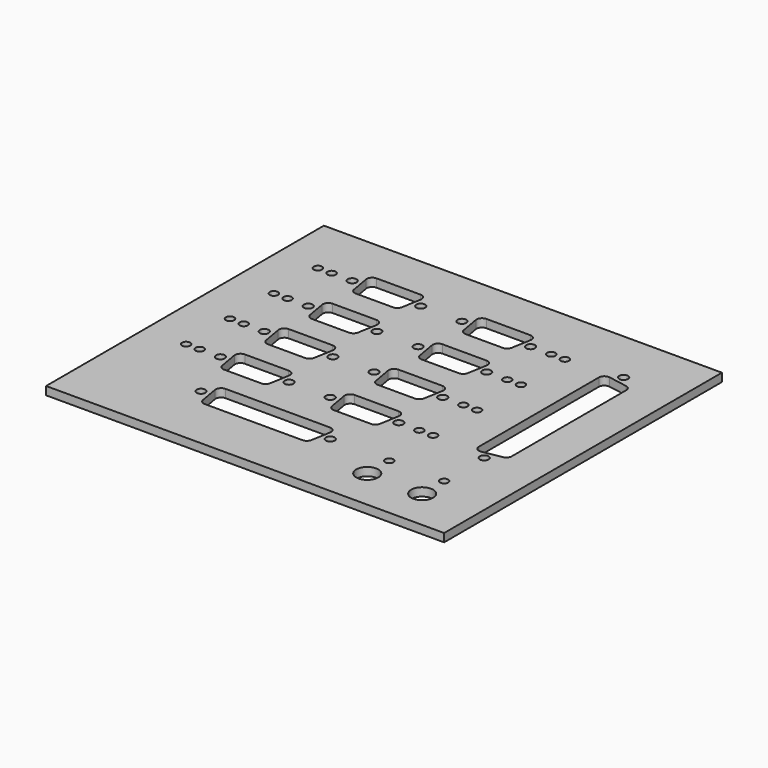
from build123d import *

# Parameters (mm, degrees)
F0_W      = 145
F0_H      = 126.5
F1_DEPTH  = 3
F2_R      = 1.5
F3_DEPTH  = 3.001
F4_R      = 1.6
F5_DEPTH  = 3.001
F7_R      = 1.6
F8_DEPTH  = 3.001
F9_R      = 1.6
F10_DEPTH = 3.001
F11_R     = 4
F11_R_2   = 1.5
F12_DEPTH = 3.001
F13_DEPTH = 3.001
F15_DEPTH = 3.001
F17_DEPTH = 3.001


with BuildPart() as f1:
    # F0 (on Top) → F1 (new body)
    with BuildSketch(Plane.XY):
        with Locations((72.5, 63.25)):
            Rectangle(F0_W, F0_H)
    extrude(amount=F1_DEPTH)

    # F2 (on face) → F3 (cut, through all)
    with BuildSketch(Plane.XY.offset(3)):
        with Locations((15, 105)):
            Circle(F2_R)
        with Locations((20, 105)):
            Circle(F2_R)
        with Locations((100, 105)):
            Circle(F2_R)
        with Locations((105, 105)):
            Circle(F2_R)
        with Locations((15, 85)):
            Circle(F2_R)
        with Locations((20, 85)):
            Circle(F2_R)
        with Locations((15, 65)):
            Circle(F2_R)
        with Locations((20, 65)):
            Circle(F2_R)
        with Locations((15, 45)):
            Circle(F2_R)
        with Locations((20, 45)):
            Circle(F2_R)
        with Locations((100, 85)):
            Circle(F2_R)
        with Locations((105, 85)):
            Circle(F2_R)
        with Locations((100, 65)):
            Circle(F2_R)
        with Locations((105, 65)):
            Circle(F2_R)
        with Locations((100, 45)):
            Circle(F2_R)
        with Locations((105, 45)):
            Circle(F2_R)
    extrude(amount=-F3_DEPTH, mode=Mode.SUBTRACT)

    # F4 (on face) → F5 (cut, through all)
    with BuildSketch(Plane.XY.offset(3)):
        with Locations((27.5, 105)):
            Circle(F4_R)
        with Locations((67.5, 105)):
            Circle(F4_R)
        with Locations((27.5, 85)):
            Circle(F4_R)
        with Locations((67.5, 85)):
            Circle(F4_R)
        with Locations((27.5, 65)):
            Circle(F4_R)
        with Locations((67.5, 65)):
            Circle(F4_R)
        with Locations((27.5, 45)):
            Circle(F4_R)
        with Locations((67.5, 45)):
            Circle(F4_R)
        with Locations((52.5, 105)):
            Circle(F4_R)
        with Locations((92.5, 105)):
            Circle(F4_R)
        with Locations((52.5, 85)):
            Circle(F4_R)
        with Locations((92.5, 85)):
            Circle(F4_R)
        with Locations((52.5, 65)):
            Circle(F4_R)
        with Locations((92.5, 65)):
            Circle(F4_R)
        with Locations((52.5, 45)):
            Circle(F4_R)
        with Locations((92.5, 45)):
            Circle(F4_R)
    extrude(amount=-F5_DEPTH, mode=Mode.SUBTRACT)

    # F7 (on face) → F8 (cut, through all)
    with BuildSketch(Plane.XY.offset(3)):
        with Locations((125, 106.75)):
            Circle(F7_R)
        with Locations((125, 43.25)):
            Circle(F7_R)
    extrude(amount=-F8_DEPTH, mode=Mode.SUBTRACT)

    # F9 (on face) → F10 (cut, through all)
    with BuildSketch(Plane.XY.offset(3)):
        with Locations((36.45, 25)):
            Circle(F9_R)
        with Locations((83.55, 25)):
            Circle(F9_R)
    extrude(amount=-F10_DEPTH, mode=Mode.SUBTRACT)

    # F11 (on face) → F12 (cut, through all)
    with BuildSketch(Plane.XY.offset(3)):
        with Locations((105, 15)):
            Circle(F11_R)
        with Locations((125, 15)):
            Circle(F11_R)
        with Locations((105, 25)):
            Circle(F11_R_2)
        with Locations((125, 25)):
            Circle(F11_R_2)
    extrude(amount=-F12_DEPTH, mode=Mode.SUBTRACT)

    # F6 (on face) → F13 (cut, through all)
    with BuildSketch(Plane.XY.offset(3)):
        with BuildLine():
            Line((48, 110.5), (32, 110.5))
            ThreePointArc((32, 110.5), (30.467911, 109.785575), (30.030384, 108.152704))
            Line((30.030384, 108.152704), (31.264673, 101.152704))
            ThreePointArc((31.264673, 101.152704), (31.948714, 99.967911), (33.234289, 99.5))
            Line((33.234289, 99.5), (46.765711, 99.5))
            ThreePointArc((46.765711, 99.5), (48.051286, 99.967911), (48.735327, 101.152704))
            Line((48.735327, 101.152704), (49.969616, 108.152704))
            ThreePointArc((49.969616, 108.152704), (49.532089, 109.785575), (48, 110.5))
        make_face()
        with BuildLine():
            Line((88, 110.5), (72, 110.5))
            ThreePointArc((72, 110.5), (70.467911, 109.785575), (70.030384, 108.152704))
            Line((70.030384, 108.152704), (71.264673, 101.152704))
            ThreePointArc((71.264673, 101.152704), (71.948714, 99.967911), (73.234289, 99.5))
            Line((73.234289, 99.5), (86.765711, 99.5))
            ThreePointArc((86.765711, 99.5), (88.051286, 99.967911), (88.735327, 101.152704))
            Line((88.735327, 101.152704), (89.969616, 108.152704))
            ThreePointArc((89.969616, 108.152704), (89.532089, 109.785575), (88, 110.5))
        make_face()
        with BuildLine():
            Line((48, 90.5), (32, 90.5))
            ThreePointArc((32, 90.5), (30.467911, 89.785575), (30.030384, 88.152704))
            Line((30.030384, 88.152704), (31.264673, 81.152704))
            ThreePointArc((31.264673, 81.152704), (31.948714, 79.967911), (33.234289, 79.5))
            Line((33.234289, 79.5), (46.765711, 79.5))
            ThreePointArc((46.765711, 79.5), (48.051286, 79.967911), (48.735327, 81.152704))
            Line((48.735327, 81.152704), (49.969616, 88.152704))
            ThreePointArc((49.969616, 88.152704), (49.532089, 89.785575), (48, 90.5))
        make_face()
        with BuildLine():
            Line((88, 90.5), (72, 90.5))
            ThreePointArc((72, 90.5), (70.467911, 89.785575), (70.030384, 88.152704))
            Line((70.030384, 88.152704), (71.264673, 81.152704))
            ThreePointArc((71.264673, 81.152704), (71.948714, 79.967911), (73.234289, 79.5))
            Line((73.234289, 79.5), (86.765711, 79.5))
            ThreePointArc((86.765711, 79.5), (88.051286, 79.967911), (88.735327, 81.152704))
            Line((88.735327, 81.152704), (89.969616, 88.152704))
            ThreePointArc((89.969616, 88.152704), (89.532089, 89.785575), (88, 90.5))
        make_face()
        with BuildLine():
            Line((48, 70.5), (32, 70.5))
            ThreePointArc((32, 70.5), (30.467911, 69.785575), (30.030384, 68.152704))
            Line((30.030384, 68.152704), (31.264673, 61.152704))
            ThreePointArc((31.264673, 61.152704), (31.948714, 59.967911), (33.234289, 59.5))
            Line((33.234289, 59.5), (46.765711, 59.5))
            ThreePointArc((46.765711, 59.5), (48.051286, 59.967911), (48.735327, 61.152704))
            Line((48.735327, 61.152704), (49.969616, 68.152704))
            ThreePointArc((49.969616, 68.152704), (49.532089, 69.785575), (48, 70.5))
        make_face()
        with BuildLine():
            Line((88, 70.5), (72, 70.5))
            ThreePointArc((72, 70.5), (70.467911, 69.785575), (70.030384, 68.152704))
            Line((70.030384, 68.152704), (71.264673, 61.152704))
            ThreePointArc((71.264673, 61.152704), (71.948714, 59.967911), (73.234289, 59.5))
            Line((73.234289, 59.5), (86.765711, 59.5))
            ThreePointArc((86.765711, 59.5), (88.051286, 59.967911), (88.735327, 61.152704))
            Line((88.735327, 61.152704), (89.969616, 68.152704))
            ThreePointArc((89.969616, 68.152704), (89.532089, 69.785575), (88, 70.5))
        make_face()
        with BuildLine():
            Line((48, 50.5), (32, 50.5))
            ThreePointArc((32, 50.5), (30.467911, 49.785575), (30.030384, 48.152704))
            Line((30.030384, 48.152704), (31.264673, 41.152704))
            ThreePointArc((31.264673, 41.152704), (31.948714, 39.967911), (33.234289, 39.5))
            Line((33.234289, 39.5), (46.765711, 39.5))
            ThreePointArc((46.765711, 39.5), (48.051286, 39.967911), (48.735327, 41.152704))
            Line((48.735327, 41.152704), (49.969616, 48.152704))
            ThreePointArc((49.969616, 48.152704), (49.532089, 49.785575), (48, 50.5))
        make_face()
        with BuildLine():
            Line((88, 50.5), (72, 50.5))
            ThreePointArc((72, 50.5), (70.467911, 49.785575), (70.030384, 48.152704))
            Line((70.030384, 48.152704), (71.264673, 41.152704))
            ThreePointArc((71.264673, 41.152704), (71.948714, 39.967911), (73.234289, 39.5))
            Line((73.234289, 39.5), (86.765711, 39.5))
            ThreePointArc((86.765711, 39.5), (88.051286, 39.967911), (88.735327, 41.152704))
            Line((88.735327, 41.152704), (89.969616, 48.152704))
            ThreePointArc((89.969616, 48.152704), (89.532089, 49.785575), (88, 50.5))
        make_face()
    extrude(amount=-F13_DEPTH, mode=Mode.SUBTRACT)

    # F14 (on face) → F15 (cut, through all)
    with BuildSketch(Plane.XY.offset(3)):
        with BuildLine():
            ThreePointArc((121.847296, 104.3), (120.214425, 103.862473), (119.5, 102.330384))
            Line((119.5, 102.330384), (119.5, 47.669616))
            ThreePointArc((119.5, 47.669616), (120.214425, 46.137527), (121.847296, 45.7))
            Line((121.847296, 45.7), (128.847296, 46.934289))
            ThreePointArc((128.847296, 46.934289), (130.032089, 47.618329), (130.5, 48.903904))
            Line((130.5, 48.903904), (130.5, 101.096096))
            ThreePointArc((130.5, 101.096096), (130.032089, 102.381671), (128.847296, 103.065711))
            Line((128.847296, 103.065711), (121.847296, 104.3))
        make_face()
    extrude(amount=-F15_DEPTH, mode=Mode.SUBTRACT)

    # F16 (on face) → F17 (cut, through all)
    with BuildSketch(Plane.XY.offset(3)):
        with BuildLine():
            Line((79.030384, 30.5), (40.969616, 30.5))
            ThreePointArc((40.969616, 30.5), (39.437527, 29.785575), (39, 28.152704))
            Line((39, 28.152704), (40.234289, 21.152704))
            ThreePointArc((40.234289, 21.152704), (40.918329, 19.967911), (42.203904, 19.5))
            Line((42.203904, 19.5), (77.796096, 19.5))
            ThreePointArc((77.796096, 19.5), (79.081671, 19.967911), (79.765711, 21.152704))
            Line((79.765711, 21.152704), (81, 28.152704))
            ThreePointArc((81, 28.152704), (80.562473, 29.785575), (79.030384, 30.5))
        make_face()
    extrude(amount=-F17_DEPTH, mode=Mode.SUBTRACT)


solid = f1.part
